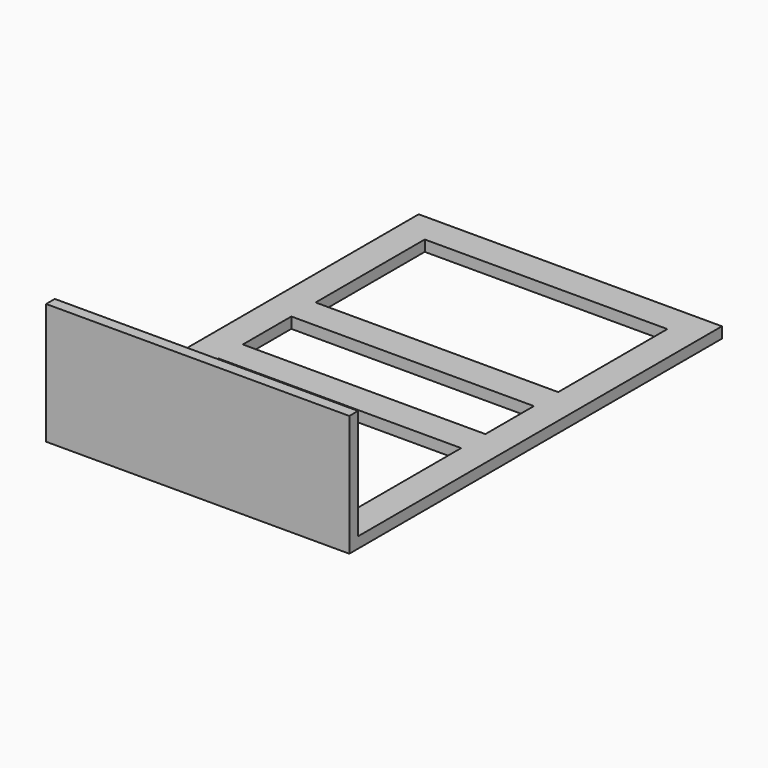
from build123d import *

# Parameters (mm, degrees)
F0_W     = 100
F0_H     = 150
F0_W_2   = 80
F0_H_2   = 10
F1_DEPTH = 3.6
F2_W     = 100
F2_H     = 3.6
F3_DEPTH = 40


with BuildPart() as f1:
    # F0 (on Top) → F1 (new body)
    with BuildSketch(Plane.XY):
        Rectangle(F0_W, F0_H)
        Polygon((-40, 20), (-40, 65), (40, 65), (40, 20), (40, 10), (40, -10), (40, -20), (40, -65), (-40, -65), (-40, -20), (-40, -10), (-40, 10), align=None, mode=Mode.SUBTRACT)
        with Locations((0, -15)):
            Rectangle(F0_W_2, F0_H_2)
        with Locations((0, 15)):
            Rectangle(F0_W_2, F0_H_2)
    extrude(amount=F1_DEPTH)

    # F2 (on Top) → F3 (join)
    with BuildSketch(Plane.XY):
        with Locations((0, -76.8)):
            Rectangle(F2_W, F2_H)
    extrude(amount=F3_DEPTH)


solid = f1.part
